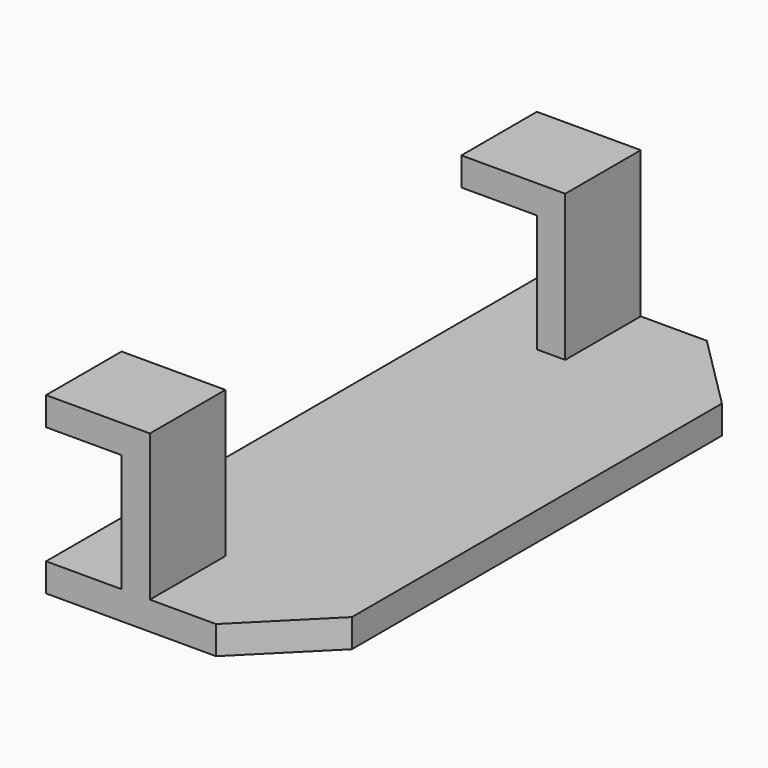
from build123d import *

# Parameters (mm, degrees)
F1_DEPTH = 32.5
F2_W     = 11
F2_H     = 45
F3_DEPTH = 15.5
F5_DEPTH = 3
F6_SIZE  = 8


with BuildPart() as f1:
    # F0 (on Front) → F1 (new body, symmetric)
    with BuildSketch(Plane.XZ):
        Polygon((8, 0), (0, 0), (0, -3), (11, -3), (11, 15.5), (0, 15.5), (0, 12.5), (8, 12.5), align=None)
    extrude(amount=F1_DEPTH, both=True)

    # F2 (on face) → F3 (cut, through all)
    with BuildSketch(Plane.XY.offset(15.5)):
        with Locations((5.5, 0)):
            Rectangle(F2_W, F2_H)
    extrude(amount=-F3_DEPTH, mode=Mode.SUBTRACT)

    # F4 (on face) → F5 (join, through all)
    with BuildSketch(Plane(origin=(0, 0, -3), x_dir=(1, 0, 0), z_dir=(0, 0, -1))):
        Polygon((11, 22.5), (11, -22.5), (11, -32.5), (26, -32.5), (26, 32.5), (11, 32.5), align=None)
    extrude(amount=-F5_DEPTH)

    # F6
    f6_edges = [f1.edges().sort_by_distance(p)[0] for p in [
        (26, -32.5, -1.5),
        (26, 32.5, -1.5),
    ]]
    chamfer(f6_edges, length=F6_SIZE)


solid = f1.part
